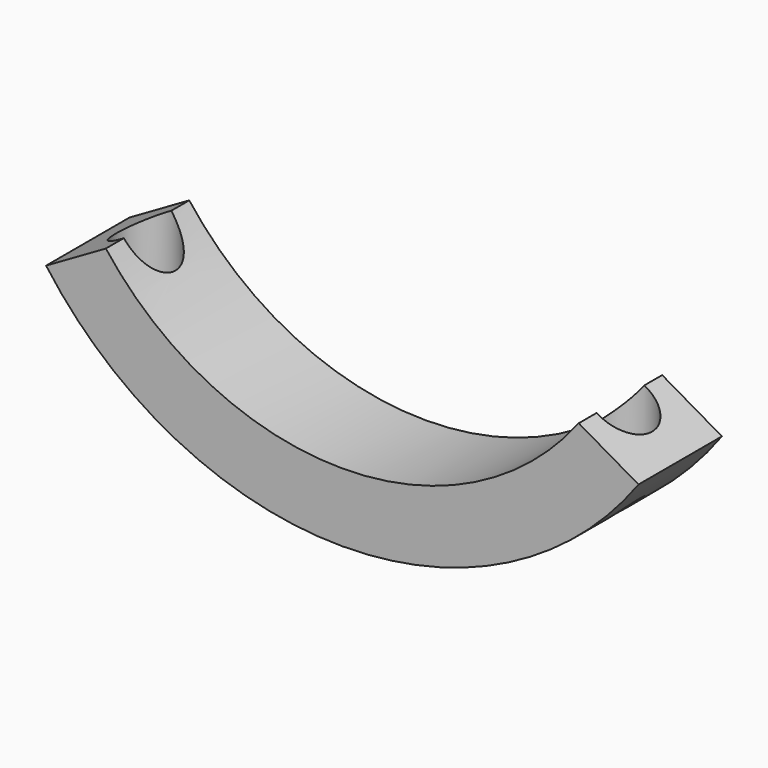
from build123d import *

# Parameters (mm, degrees)
F1_DEPTH = 17.5
F5_R     = 3
F6_DEPTH = 46.213747
F5_R_2   = 5
F7_DEPTH = 26


with BuildPart() as f1:
    # F0 (on Front) → F1 (new body)
    with BuildSketch(Plane.XZ):
        with BuildLine():
            ThreePointArc((39.686286, 4.873462), (0, -14.712747), (-39.686286, 4.873462))
            Line((-39.686286, 4.873462), (-49.714635, -0.916408))
            ThreePointArc((-49.714635, -0.916408), (0, -26.212747), (49.714635, -0.916408))
            Line((49.714635, -0.916408), (39.686286, 4.873462))
        make_face()
    extrude(amount=-F1_DEPTH)

    # F5 (on offset) → F6 (cut, through all)
    with BuildSketch(Plane.XY.offset(20)):
        with Locations((40, 8.75)):
            Circle(F5_R)
        with Locations((-40, 8.75)):
            Circle(F5_R)
    extrude(amount=-F6_DEPTH, mode=Mode.SUBTRACT)

    # F5 (on offset) → F7 (cut)
    with BuildSketch(Plane.XY.offset(20)):
        with Locations((40, 8.75)):
            Circle(F5_R_2)
        with Locations((40, 8.75)):
            Circle(F5_R, mode=Mode.SUBTRACT)
        with Locations((-40, 8.75)):
            Circle(F5_R_2)
        with Locations((-40, 8.75)):
            Circle(F5_R, mode=Mode.SUBTRACT)
    extrude(amount=-F7_DEPTH, mode=Mode.SUBTRACT)


with BuildPart() as f2_1:
    # F2: copy of F1
    add(f1.part)


solid = f1.part
